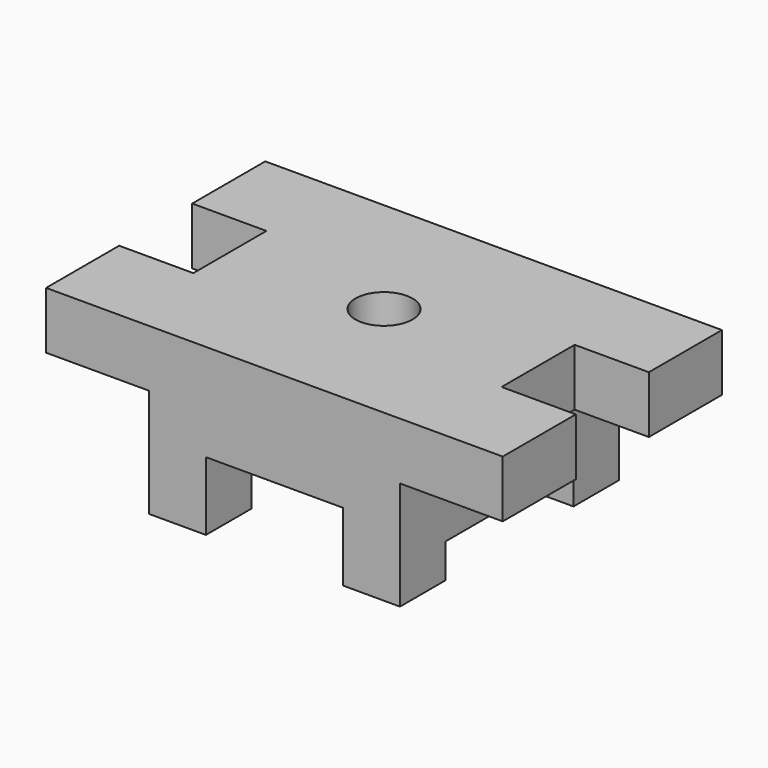
from build123d import *

# Parameters (mm, degrees)
F0_R     = 15.875
F0_W     = 31.75
F0_H     = 31.75
F0_H_2   = 88.9
F0_W_2   = 31.749996
F1_DEPTH = 53.975
F2_DEPTH = 31.75
F3_DEPTH = 73.025
F4_DEPTH = 92.075


with BuildPart() as f1:
    # F0 (on Top) → F1 (new body)
    with BuildSketch(Plane.XY):
        Polygon((12.115171, 76.2), (-64.084829, 76.2), (-64.084829, 44.45), (-64.084829, -44.45), (-64.084829, -76.2), (12.115171, -76.2), (12.115171, -44.45), (12.115171, 44.45), align=None)
        with Locations((-25.984829, 0)):
            Circle(F0_R, mode=Mode.SUBTRACT)
        with Locations((-79.959829, -60.325)):
            Rectangle(F0_W, F0_H)
        with Locations((-79.959829, 0)):
            Rectangle(F0_W, F0_H_2)
        with Locations((-79.959829, 60.325)):
            Rectangle(F0_W, F0_H)
        with Locations((27.990169, 60.325)):
            Rectangle(F0_W_2, F0_H)
        with Locations((27.990169, 0)):
            Rectangle(F0_W_2, F0_H_2)
        with Locations((27.990169, -60.325)):
            Rectangle(F0_W_2, F0_H)
    extrude(amount=-F1_DEPTH)

    # F0 (on Top) → F2 (join)
    with BuildSketch(Plane.XY):
        Polygon((-95.834829, 76.2), (-152.984833, 76.2), (-152.984833, 25.4), (-111.709833, 25.4), (-111.709833, -25.4), (-152.984833, -25.4), (-152.984833, -76.2), (-95.834829, -76.2), (-95.834829, -44.45), (-95.834829, 44.45), align=None)
        Polygon((101.015167, 76.2), (43.865167, 76.2), (43.865167, 44.45), (43.865167, -44.45), (43.865167, -76.2), (101.015167, -76.2), (101.015167, -25.4), (59.740167, -25.4), (59.740167, 25.4), (101.015167, 25.4), align=None)
    extrude(amount=-F2_DEPTH)

    # F0 (on Top) → F3 (join)
    with BuildSketch(Plane.XY):
        with Locations((27.990169, 0)):
            Rectangle(F0_W_2, F0_H_2)
        with Locations((-79.959829, 0)):
            Rectangle(F0_W, F0_H_2)
    extrude(amount=-F3_DEPTH)

    # F0 (on Top) → F4 (join)
    with BuildSketch(Plane.XY):
        with Locations((27.990169, -60.325)):
            Rectangle(F0_W_2, F0_H)
        with Locations((-79.959829, -60.325)):
            Rectangle(F0_W, F0_H)
        with Locations((27.990169, 60.325)):
            Rectangle(F0_W_2, F0_H)
        with Locations((-79.959829, 60.325)):
            Rectangle(F0_W, F0_H)
    extrude(amount=-F4_DEPTH)


solid = f1.part
